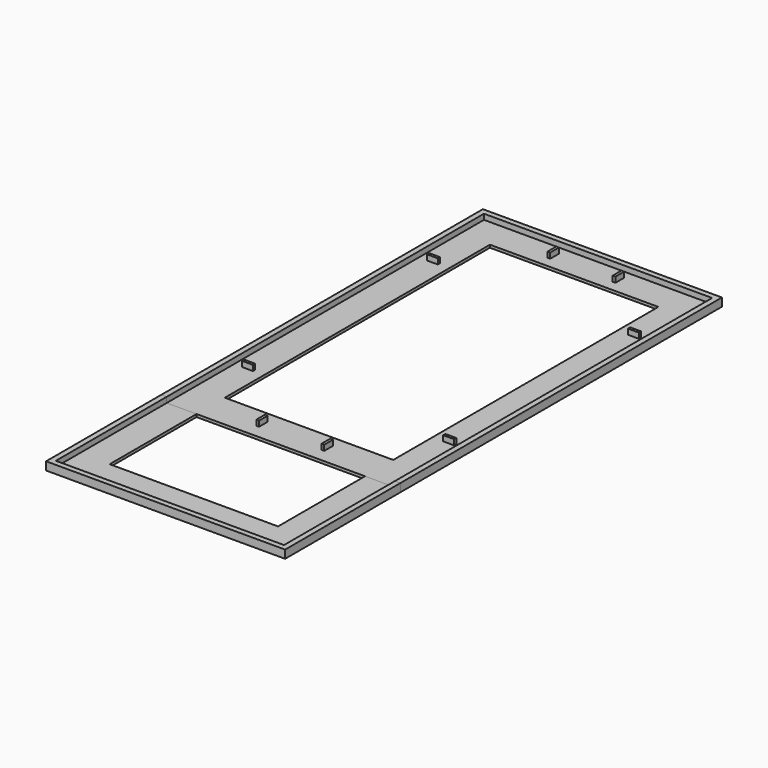
from build123d import *

# Parameters (mm, degrees)
BOX003_W     = 4
BOX003_H     = 1
BOX003_DEPTH = 3
BOX004_W     = 4
BOX004_H     = 1
BOX004_DEPTH = 3
BOX005_W     = 4
BOX005_H     = 1
BOX005_DEPTH = 3
BOX006_W     = 4
BOX006_H     = 1
BOX006_DEPTH = 3
BOX007_W     = 1
BOX007_H     = 4
BOX007_DEPTH = 3
BOX008_W     = 1
BOX008_H     = 4
BOX008_DEPTH = 3
BOX009_W     = 1
BOX009_H     = 4
BOX009_DEPTH = 3
BOX010_W     = 1
BOX010_H     = 4
BOX010_DEPTH = 3
BOX012_W     = 84
BOX012_H     = 53
BOX012_DEPTH = 2
BOX002_W     = 84
BOX002_H     = 144
BOX002_DEPTH = 2
BOX001_W     = 62
BOX001_H     = 122
BOX001_DEPTH = 3
BOX_W        = 88
BOX_H        = 148
BOX_DEPTH    = 3
BOX013_W     = 62
BOX013_H     = 40
BOX013_DEPTH = 3
BOX011_W     = 88
BOX011_H     = 53
BOX011_DEPTH = 3


with BuildPart() as cube003:
    # Box003 → Box003 (new body)
    with BuildSketch(Plane(origin=(5, 31, 0), x_dir=(1, 0, 0), z_dir=(0, 0, 1))):
        with Locations((2, 0.5)):
            Rectangle(BOX003_W, BOX003_H)
    extrude(amount=BOX003_DEPTH)


with BuildPart() as cube004:
    # Box004 → Box004 (new body)
    with BuildSketch(Plane(origin=(79, 31, 0), x_dir=(1, 0, 0), z_dir=(0, 0, 1))):
        with Locations((2, 0.5)):
            Rectangle(BOX004_W, BOX004_H)
    extrude(amount=BOX004_DEPTH)


with BuildPart() as cube005:
    # Box005 → Box005 (new body)
    with BuildSketch(Plane(origin=(5, 116, 0), x_dir=(1, 0, 0), z_dir=(0, 0, 1))):
        with Locations((2, 0.5)):
            Rectangle(BOX005_W, BOX005_H)
    extrude(amount=BOX005_DEPTH)


with BuildPart() as cube006:
    # Box006 → Box006 (new body)
    with BuildSketch(Plane(origin=(79, 116, 0), x_dir=(1, 0, 0), z_dir=(0, 0, 1))):
        with Locations((2, 0.5)):
            Rectangle(BOX006_W, BOX006_H)
    extrude(amount=BOX006_DEPTH)


with BuildPart() as cube007:
    # Box007 → Box007 (new body)
    with BuildSketch(Plane(origin=(31, 5, 0), x_dir=(1, 0, 0), z_dir=(0, 0, 1))):
        with Locations((0.5, 2)):
            Rectangle(BOX007_W, BOX007_H)
    extrude(amount=BOX007_DEPTH)


with BuildPart() as cube008:
    # Box008 → Box008 (new body)
    with BuildSketch(Plane(origin=(55, 5, 0), x_dir=(1, 0, 0), z_dir=(0, 0, 1))):
        with Locations((0.5, 2)):
            Rectangle(BOX008_W, BOX008_H)
    extrude(amount=BOX008_DEPTH)


with BuildPart() as cube009:
    # Box009 → Box009 (new body)
    with BuildSketch(Plane(origin=(31, 139, 0), x_dir=(1, 0, 0), z_dir=(0, 0, 1))):
        with Locations((0.5, 2)):
            Rectangle(BOX009_W, BOX009_H)
    extrude(amount=BOX009_DEPTH)


with BuildPart() as cube010:
    # Box010 → Box010 (new body)
    with BuildSketch(Plane(origin=(55, 139, 0), x_dir=(1, 0, 0), z_dir=(0, 0, 1))):
        with Locations((0.5, 2)):
            Rectangle(BOX010_W, BOX010_H)
    extrude(amount=BOX010_DEPTH)


with BuildPart() as cube012:
    # Box012 → Box012 (new body)
    with BuildSketch(Plane(origin=(2, -51, 1), x_dir=(1, 0, 0), z_dir=(0, 0, 1))):
        with Locations((42, 26.5)):
            Rectangle(BOX012_W, BOX012_H)
    extrude(amount=BOX012_DEPTH)


with BuildPart() as cube002:
    # Box002 → Box002 (new body)
    with BuildSketch(Plane(origin=(2, 2, 1), x_dir=(1, 0, 0), z_dir=(0, 0, 1))):
        with Locations((42, 72)):
            Rectangle(BOX002_W, BOX002_H)
    extrude(amount=BOX002_DEPTH)


with BuildPart() as cube001:
    # Box001 → Box001 (new body)
    with BuildSketch(Plane(origin=(13, 13, 0), x_dir=(1, 0, 0), z_dir=(0, 0, 1))):
        with Locations((31, 61)):
            Rectangle(BOX001_W, BOX001_H)
    extrude(amount=BOX001_DEPTH)


with BuildPart() as cut003:
    # Box → Box (new body)
    with BuildSketch(Plane.XY):
        with Locations((44, 74)):
            Rectangle(BOX_W, BOX_H)
    extrude(amount=BOX_DEPTH)

    # Cut: cut Cube001
    add(cube001.part, mode=Mode.SUBTRACT)

    # Cut001: cut Cube002
    add(cube002.part, mode=Mode.SUBTRACT)

    # Cut003: cut Cube012
    add(cube012.part, mode=Mode.SUBTRACT)


with BuildPart() as cube013:
    # Box013 → Box013 (new body)
    with BuildSketch(Plane(origin=(13, -40, 0), x_dir=(1, 0, 0), z_dir=(0, 0, 1))):
        with Locations((31, 20)):
            Rectangle(BOX013_W, BOX013_H)
    extrude(amount=BOX013_DEPTH)


with BuildPart() as cut004:
    # Box011 → Box011 (new body)
    with BuildSketch(Plane(origin=(0, -53, 0), x_dir=(1, 0, 0), z_dir=(0, 0, 1))):
        with Locations((44, 26.5)):
            Rectangle(BOX011_W, BOX011_H)
    extrude(amount=BOX011_DEPTH)

    # Cut002: cut Cube012
    add(cube012.part, mode=Mode.SUBTRACT)

    # Cut004: cut Cube013
    add(cube013.part, mode=Mode.SUBTRACT)


solid = Compound([cube003.part, cube004.part, cube005.part, cube006.part, cube007.part, cube008.part, cube009.part, cube010.part, cut003.part, cut004.part])
